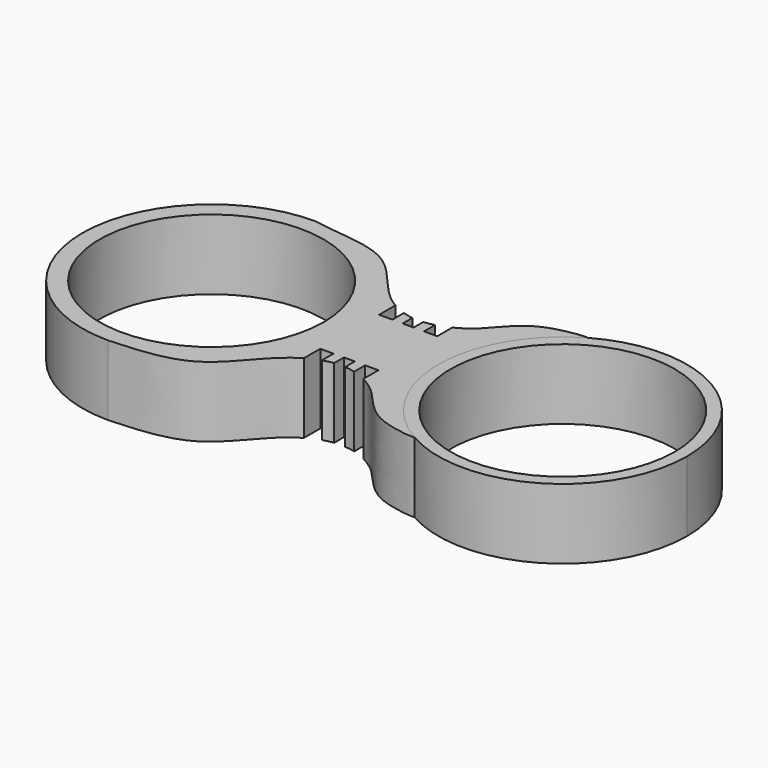
from build123d import *

# Parameters (mm, degrees)
F0_R     = 11.175
F1_DEPTH = 7
F2_DEPTH = 7


with BuildPart() as f1:
    # F0 (on Top) → F1 (new body)
    with BuildSketch(Plane.XY):
        with BuildLine():
            ThreePointArc((-6.3417691643, -10.6534334759), (-12.398132156, 0), (-6.3417691643, 10.6534334759))
            add(Edge.make_bspline(
                [(-6.2182208185, 10.7260156074), (-6.2898533195, 10.6910439898), (-6.3928576009, 10.6541938208), (-6.3417691643, 10.6534334759)],
                knots=[0.9757964746, 0.9757964746, 0.9757964746, 0.9757964746, 1, 1, 1, 1], degree=3))
            ThreePointArc((-6.2182208185, 10.7260156074), (-6.1938831268, 10.7400881174), (-6.1695135877, 10.7541054045))
            add(Edge.make_bspline(
                [(-15.4393427074, 5.5421058876), (-14.8912780033, 5.8141958954), (-12.9618337257, 7.102279887), (-11.3000086923, 10.432941862), (-5.9426922893, 10.9316099021), (-6.1695135877, 10.7541054045)],
                knots=[0.6163845414, 0.6163845414, 0.6163845414, 0.6163845414, 0.673080138, 0.8301918023, 0.9690223671, 0.9690223671, 0.9690223671, 0.9690223671], degree=3))
            Line((-15.4393427074, 5.5421058876), (-15.4393427074, 3.6695655435))
            Line((-15.4393427074, 3.6695655435), (-16.7575217783, 3.6695655435))
            Line((-16.7575217783, 3.6695655435), (-16.7575217783, 5.0453083157))
            add(Edge.make_bspline(
                [(-17.7929103374, 4.8639994661), (-17.4465794205, 4.8937805268), (-17.0995805588, 4.955405242), (-16.7575217783, 5.0453083157)],
                knots=[0.5397002226, 0.5397002226, 0.5397002226, 0.5397002226, 0.5727189225, 0.5727189225, 0.5727189225, 0.5727189225], degree=3))
            Line((-17.7929103374, 4.8639994661), (-17.7929103374, 3.6582010798))
            Line((-17.7929103374, 3.6582010798), (-18.8809223473, 3.6582010798))
            Line((-18.8809223473, 3.6582010798), (-18.8809223473, 4.8793821001))
            add(Edge.make_bspline(
                [(-19.9163109064, 5.1029895365), (-19.5767359601, 4.9956990886), (-19.2311209543, 4.920305821), (-18.8809223473, 4.8793821001)],
                knots=[0.470842737, 0.470842737, 0.470842737, 0.470842737, 0.5048637742, 0.5048637742, 0.5048637742, 0.5048637742], degree=3))
            Line((-19.9163109064, 5.1029895365), (-19.9163109064, 3.6695655435))
            Line((-19.9163109064, 3.6695655435), (-21.2344899774, 3.6695655435))
            Line((-21.2344899774, 3.6695655435), (-21.2344899774, 5.6935674142))
            add(Edge.make_bspline(
                [(-35, 12.8868968785), (-32.4764058242, 12.3842750738), (-26.8328403096, 12.6124271474), (-23.8683963588, 7.6040613235), (-21.7601893659, 6.0007013665), (-21.2344899774, 5.6935674142)],
                knots=[0, 0, 0, 0, 0.1926872335, 0.3699145532, 0.4256387724, 0.4256387724, 0.4256387724, 0.4256387724], degree=3))
            ThreePointArc((-35, 12.8868968785), (-44.1124121712, 9.1124121712), (-47.8868968785, 0))
            ThreePointArc((-47.8868968785, 0), (-44.1124121712, -9.1124121712), (-35, -12.8868968785))
            add(Edge.make_bspline(
                [(-35, -12.8868968785), (-32.2373997542, -12.7407331929), (-26.9339365175, -12.4601619558), (-23.8740309058, -7.6057967092), (-21.7579622329, -6.0142972002), (-21.2344899774, -5.7083986722)],
                knots=[0, 0, 0, 0, 0.1926872335, 0.3699145532, 0.4253332887, 0.4253332887, 0.4253332887, 0.4253332887], degree=3))
            Line((-21.2344899774, -5.7083986722), (-21.2344899774, -3.6695655435))
            Line((-21.2344899774, -3.6695655435), (-19.9163109064, -3.6695655435))
            Line((-19.9163109064, -3.6695655435), (-19.9163109064, -5.1124505346))
            add(Edge.make_bspline(
                [(-19.9163109064, -5.1124505346), (-19.5763428722, -5.0028512158), (-19.230767931, -4.92507808), (-18.8809223473, -4.8821444426)],
                knots=[0.4705904371, 0.4705904371, 0.4705904371, 0.4705904371, 0.5047615456, 0.5047615456, 0.5047615456, 0.5047615456], degree=3))
            Line((-18.8809223473, -4.8821444426), (-18.8809223473, -3.6582010798))
            Line((-18.8809223473, -3.6582010798), (-17.7929103374, -3.6582010798))
            Line((-17.7929103374, -3.6582010798), (-17.7929103374, -4.8623260426))
            add(Edge.make_bspline(
                [(-17.7929103374, -4.8623260426), (-17.4466841273, -4.8914015711), (-17.0998134145, -4.9529921722), (-16.7575217783, -5.0434919944)],
                knots=[0.5398122313, 0.5398122313, 0.5398122313, 0.5398122313, 0.5730388079, 0.5730388079, 0.5730388079, 0.5730388079], degree=3))
            Line((-16.7575217783, -5.0434919944), (-16.7575217783, -3.6695655435))
            Line((-16.7575217783, -3.6695655435), (-15.4393427074, -3.6695655435))
            Line((-15.4393427074, -3.6695655435), (-15.4393427074, -5.5440194618))
            add(Edge.make_bspline(
                [(-15.4393427074, -5.5440194618), (-14.8958951228, -5.8155793715), (-12.9585668754, -7.1083770223), (-11.142482926, -10.471002969), (-6.2414235549, -10.8584930729), (-6.1695135877, -10.7541054045)],
                knots=[0.616851465, 0.616851465, 0.616851465, 0.616851465, 0.673080138, 0.8301918023, 0.9690223671, 0.9690223671, 0.9690223671, 0.9690223671], degree=3))
            ThreePointArc((-6.1695135877, -10.7541054045), (-6.2558438866, -10.7041159478), (-6.3417691643, -10.6534334759))
        make_face()
        with Locations((-35, 0)):
            Circle(F0_R, mode=Mode.SUBTRACT)
    extrude(amount=F1_DEPTH)


with BuildPart() as f2:
    # F0 (on Top) → F2 (new body)
    with BuildSketch(Plane.XY):
        with BuildLine():
            ThreePointArc((-6.2182208185, 10.7260156074), (-6.2800998506, 10.6899030316), (-6.3417691643, 10.6534334759))
            ThreePointArc((-6.3417691643, 10.6534334759), (-12.398132156, 0), (-6.3417691643, -10.6534334759))
            add(Edge.make_bspline(
                [(-6.1695135877, -10.7541054045), (-6.1534681256, -10.7308131066), (-6.2483131103, -10.6932731933), (-6.3417691643, -10.6534334759)],
                knots=[0.9690223671, 0.9690223671, 0.9690223671, 0.9690223671, 1, 1, 1, 1], degree=3))
            ThreePointArc((-6.1695135877, -10.7541054045), (6.2138247545, -10.7285629456), (12.398132156, 0))
            ThreePointArc((12.398132156, 0), (6.2138247545, 10.7285629456), (-6.1695135877, 10.7541054045))
            add(Edge.make_bspline(
                [(-6.1695135877, 10.7541054045), (-6.1805811207, 10.7454442386), (-6.1981722407, 10.7358034996), (-6.2182208185, 10.7260156074)],
                knots=[0.9690223671, 0.9690223671, 0.9690223671, 0.9690223671, 0.9757964746, 0.9757964746, 0.9757964746, 0.9757964746], degree=3))
        make_face()
        Circle(F0_R, mode=Mode.SUBTRACT)
    extrude(amount=F2_DEPTH)


solid = Compound([f1.part, f2.part])
